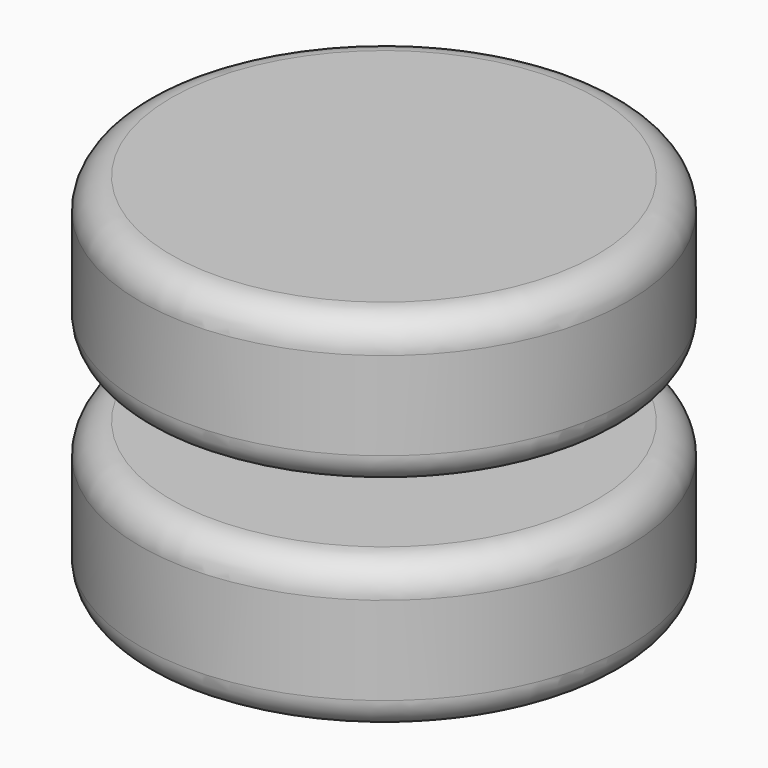
from build123d import *

# Parameters (mm, degrees)
F0_R     = 40
F1_DEPTH = 24.638
F2_R     = 5.08
F3_R     = 7.5
F4_DEPTH = 30


with BuildPart() as f1:
    # F0 (on Top) → F1 (new body)
    with BuildSketch(Plane.XY):
        Circle(F0_R)
    extrude(amount=F1_DEPTH)

    # F2
    f2_edges = [f1.edges().sort_by_distance(p)[0] for p in [
        (-40, 0, 24.638),
        (-40, 0, 0),
    ]]
    fillet(f2_edges, radius=F2_R)

    # F3 (on Top) → F4 (join)
    with BuildSketch(Plane.XY):
        Circle(F3_R)
    extrude(amount=F4_DEPTH)

    # F5: F1 across face


with BuildPart() as f1_1:
    add(f1.part)
    add(f1.part.mirror(Plane.XY.offset(30)))


solid = f1_1.part
